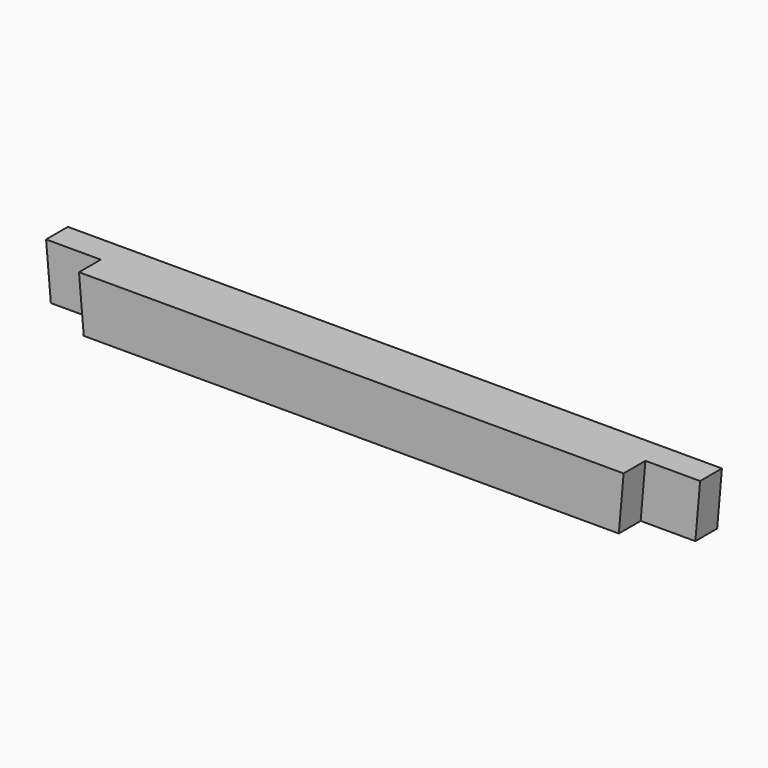
from build123d import *

# Parameters (mm, degrees)
F1_DEPTH = 38.1
F3_DEPTH = 19.05
F5_DEPTH = 19.05


with BuildPart() as f1:
    # F0 (on Front) → F1 (new body)
    with BuildSketch(Plane.XZ):
        Polygon((457.2, 0), (0, 0), (3.333318, -38.1), (453.866682, -38.1), align=None)
    extrude(amount=F1_DEPTH)

    # F2 (on face) → F3 (cut)
    with BuildSketch(Plane.XZ.offset(38.1)):
        Polygon((457.2, 0), (418.954464, 0), (415.621146, -38.1), (453.866682, -38.1), align=None)
    extrude(amount=-F3_DEPTH, mode=Mode.SUBTRACT)

    # F4 (on face) → F5 (cut)
    with BuildSketch(Plane.XZ.offset(38.1)):
        Polygon((41.578854, -38.1), (38.245536, 0), (0, 0), (3.333318, -38.1), align=None)
    extrude(amount=-F5_DEPTH, mode=Mode.SUBTRACT)


solid = f1.part
